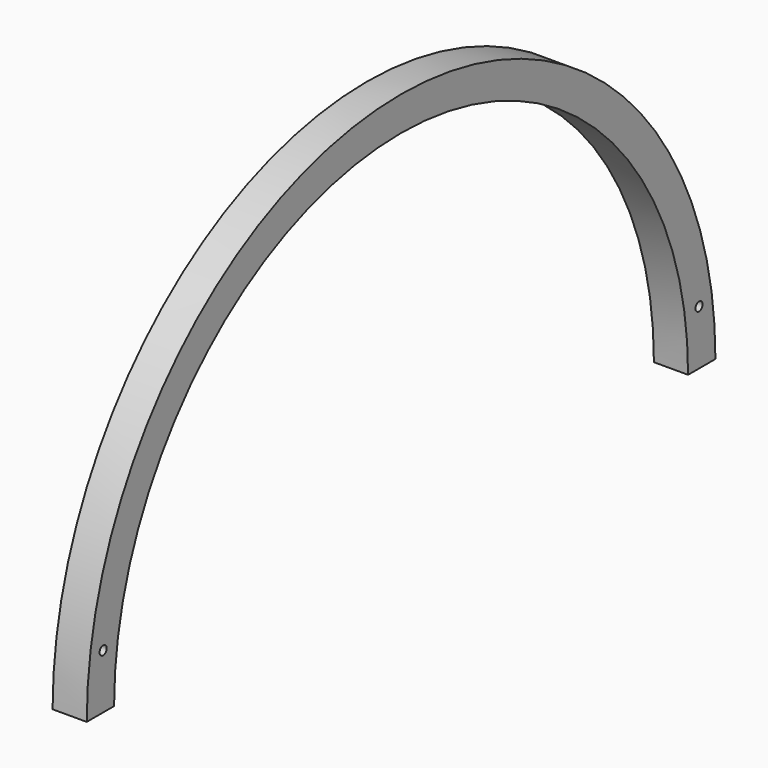
from build123d import *

# Parameters (mm, degrees)
CYLINDER076_R     = 1.3
CYLINDER076_DEPTH = 331
CYLINDER075_R     = 1.3
CYLINDER075_DEPTH = 331
CYLINDER074_W     = 105
CYLINDER074_H     = 10
CYLINDER074_ANGLE = 180
CYLINDER073_W     = 115
CYLINDER073_H     = 10
CYLINDER073_ANGLE = 180


with BuildPart() as cilindro076:
    # Cylinder076 → Cylinder076 (new body)
    with BuildSketch(Plane(origin=(5, 224, 178), x_dir=(0, 0, -1), z_dir=(1, 0, 0))):
        Circle(CYLINDER076_R)
    extrude(amount=CYLINDER076_DEPTH)


with BuildPart() as cilindro075:
    # Cylinder075 → Cylinder075 (new body)
    with BuildSketch(Plane(origin=(5, 6, 178), x_dir=(0, 0, -1), z_dir=(1, 0, 0))):
        Circle(CYLINDER075_R)
    extrude(amount=CYLINDER075_DEPTH)


with BuildPart() as cilindro074:
    # Cylinder074 → Cylinder074 (revolve)
    with BuildSketch(Plane(origin=(-3, 115, 171), x_dir=(0, -1, 0), z_dir=(0, 0, -1))):
        with Locations((52.5, 5)):
            Rectangle(CYLINDER074_W, CYLINDER074_H)
    revolve(axis=Axis((-3, 115, 171), (-1, 0, 0)), revolution_arc=CYLINDER074_ANGLE)


with BuildPart() as cut082:
    # Cylinder073 → Cylinder073 (revolve)
    with BuildSketch(Plane(origin=(-3, 115, 171), x_dir=(0, -1, 0), z_dir=(0, 0, -1))):
        with Locations((57.5, 5)):
            Rectangle(CYLINDER073_W, CYLINDER073_H)
    revolve(axis=Axis((-3, 115, 171), (-1, 0, 0)), revolution_arc=CYLINDER073_ANGLE)

    # Cut083: cut Cilindro074
    add(cilindro074.part, mode=Mode.SUBTRACT)


with BuildPart() as cut082_1:
    # Cut083 placement: moved
    add(cut082.part.moved(Location((13, 0, -9))))

    # Cut084: cut Cilindro075
    add(cilindro075.part, mode=Mode.SUBTRACT)

    # Cut082: cut Cilindro076
    add(cilindro076.part, mode=Mode.SUBTRACT)


with BuildPart() as cut082_2:
    # Cut082 placement: moved
    add(cut082_1.part.moved(Location((-10, 0, 0))))


solid = cut082_2.part
